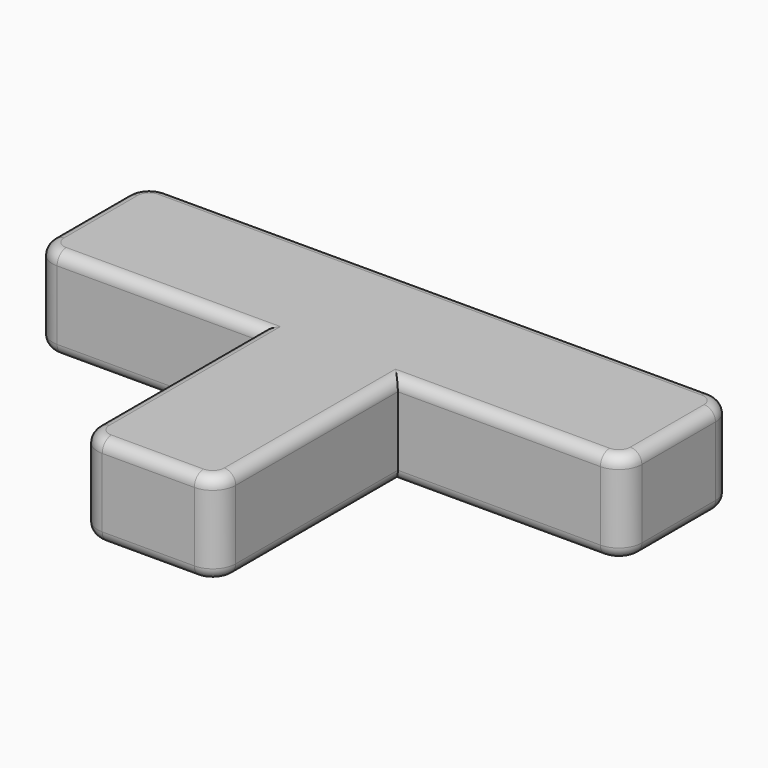
from build123d import *

# Parameters (mm, degrees)
F0_W     = 4.7625
F0_H     = 4.7625
F1_DEPTH = 3.175
F2_R     = 0.396875


with BuildPart() as f1:
    # F0 (on Top) → F1 (new body)
    with BuildSketch(Plane.XY):
        with BuildLine():
            Line((-1.5875, -10.16), (1.5875, -10.16))
            ThreePointArc((1.5875, -10.16), (2.1487660076, -9.9275160076), (2.38125, -9.36625))
            Line((2.38125, -9.36625), (2.38125, -2.38125))
            Line((2.38125, -2.38125), (-2.38125, -2.38125))
            Line((-2.38125, -2.38125), (-2.38125, -9.36625))
            ThreePointArc((-2.38125, -9.36625), (-2.1487660076, -9.9275160076), (-1.5875, -10.16))
        make_face()
        Rectangle(F0_W, F0_H)
        with BuildLine():
            Line((2.38125, 2.38125), (2.38125, -2.38125))
            Line((2.38125, -2.38125), (9.36625, -2.38125))
            ThreePointArc((9.36625, -2.38125), (9.9275160076, -2.1487660076), (10.16, -1.5875))
            Line((10.16, -1.5875), (10.16, 1.5875))
            ThreePointArc((10.16, 1.5875), (9.9275160076, 2.1487660076), (9.36625, 2.38125))
            Line((9.36625, 2.38125), (2.38125, 2.38125))
        make_face()
        with BuildLine():
            Line((-9.36625, -2.38125), (-2.38125, -2.38125))
            Line((-2.38125, -2.38125), (-2.38125, 2.38125))
            Line((-2.38125, 2.38125), (-9.36625, 2.38125))
            ThreePointArc((-9.36625, 2.38125), (-9.9275160076, 2.1487660076), (-10.16, 1.5875))
            Line((-10.16, 1.5875), (-10.16, -1.5875))
            ThreePointArc((-10.16, -1.5875), (-9.9275160076, -2.1487660076), (-9.36625, -2.38125))
        make_face()
    extrude(amount=F1_DEPTH)

    # F2
    f2_edges = [f1.edges().sort_by_distance(p)[0] for p in [
        (-2.148766, -9.927516, 3.175),
        (0, -10.16, 3.175),
        (2.148766, -9.927516, 3.175),
        (2.38125, -5.87375, 3.175),
        (5.87375, -2.38125, 3.175),
        (9.927516, -2.148766, 3.175),
        (10.16, 0, 3.175),
        (9.927516, 2.148766, 3.175),
        (0, 2.38125, 3.175),
        (-9.927516, 2.148766, 3.175),
        (-10.16, 0, 3.175),
        (-9.927516, -2.148766, 3.175),
        (-5.87375, -2.38125, 3.175),
        (-2.38125, -5.87375, 3.175),
        (-2.148766, -9.927516, 0),
        (0, -10.16, 0),
        (2.148766, -9.927516, 0),
        (2.38125, -5.87375, 0),
        (5.87375, -2.38125, 0),
        (9.927516, -2.148766, 0),
        (10.16, 0, 0),
        (9.927516, 2.148766, 0),
        (0, 2.38125, 0),
        (-9.927516, 2.148766, 0),
        (-10.16, 0, 0),
        (-9.927516, -2.148766, 0),
        (-5.87375, -2.38125, 0),
        (-2.38125, -5.87375, 0),
    ]]
    fillet(f2_edges, radius=F2_R)


solid = f1.part
